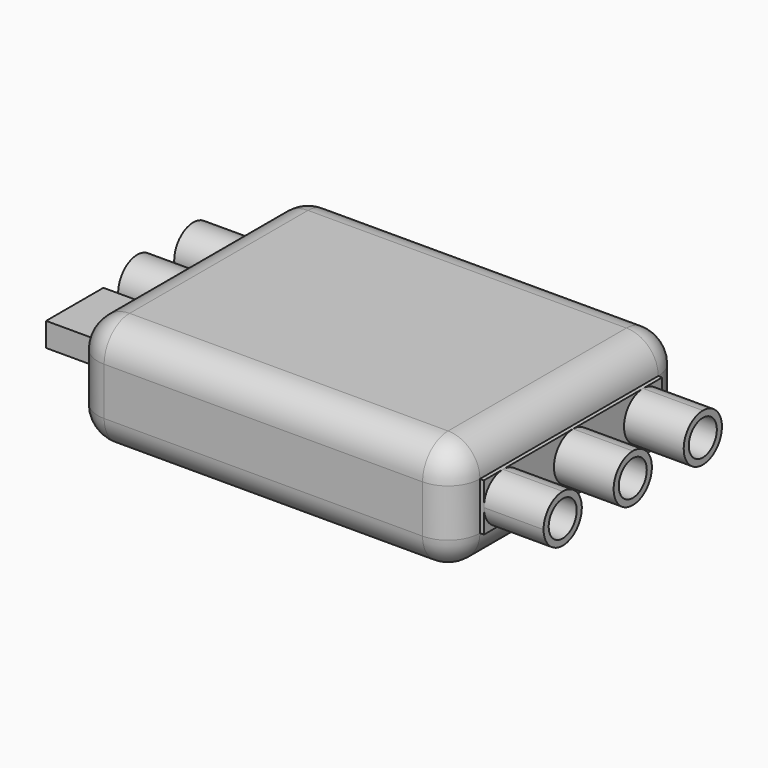
from build123d import *

# Parameters (mm, degrees)
F1_DEPTH  = 7
F2_R      = 2
F3_R      = 1.1
F4_DEPTH  = 4
F5_R      = 1.5
F5_R_2    = 1.1
F6_DEPTH  = 4
F5_W      = 4.5
F5_H      = 1.5
F7_W      = 14
F7_H      = 3
F8_DEPTH  = 0.25
F9_W      = 14
F9_H      = 3
F10_DEPTH = 0.25


with BuildPart() as f1:
    # F0 (on Top) → F1 (new body)
    with BuildSketch(Plane.XY):
        with BuildLine():
            ThreePointArc((12, 7), (11.4142135624, 8.4142135624), (10, 9))
            Line((10, 9), (-10, 9))
            ThreePointArc((-10, 9), (-11.4142135624, 8.4142135624), (-12, 7))
            Line((-12, 7), (-12, -7))
            ThreePointArc((-12, -7), (-11.4142135624, -8.4142135624), (-10, -9))
            Line((-10, -9), (10, -9))
            ThreePointArc((10, -9), (11.4142135624, -8.4142135624), (12, -7))
            Line((12, -7), (12, 7))
        make_face()
    extrude(amount=F1_DEPTH)

    # F2
    f2_edges = [f1.edges().sort_by_distance(p)[0] for p in [
        (11.414214, 8.414214, 7),
        (0, 9, 7),
        (-11.414214, 8.414214, 7),
        (-12, 0, 7),
        (-11.414214, -8.414214, 7),
        (0, -9, 7),
        (11.414214, -8.414214, 7),
        (12, 0, 7),
        (11.414214, 8.414214, 0),
        (0, 9, 0),
        (-11.414214, 8.414214, 0),
        (-12, 0, 0),
        (-11.414214, -8.414214, 0),
        (0, -9, 0),
        (11.414214, -8.414214, 0),
        (12, 0, 0),
    ]]
    fillet(f2_edges, radius=F2_R)



with BuildPart() as f4:
    # F3 (on face) → F4 (new body)
    with BuildSketch(Plane.YZ.offset(12)):
        with BuildLine():
            ThreePointArc((-4, 3.5), (-4.4393398246, 4.5606601681), (-5.4999999897, 5))
            ThreePointArc((-5.4999999897, 5), (-6.5606601681, 4.5606601754), (-7, 3.5))
            ThreePointArc((-7, 3.5), (-6.5606601718, 2.4393398282), (-5.5, 2))
            ThreePointArc((-5.5, 2), (-4.4393398282, 2.4393398282), (-4, 3.5))
        make_face()
        with Locations((-5.5, 3.5)):
            Circle(F3_R, mode=Mode.SUBTRACT)
    extrude(amount=F4_DEPTH)


with BuildPart() as f4b:
    # F3 (on face) → F4, piece 2 (new body)
    with BuildSketch(Plane.YZ.offset(12)):
        with BuildLine():
            ThreePointArc((0, 2), (1.0606601718, 2.4393398282), (1.5, 3.5))
            ThreePointArc((1.5, 3.5), (1.0606601718, 4.5606601718), (0, 5))
            ThreePointArc((0, 5), (-1.5, 3.5), (0, 2))
        make_face()
        with Locations((0, 3.5)):
            Circle(F3_R, mode=Mode.SUBTRACT)
    extrude(amount=F4_DEPTH)


with BuildPart() as f4c:
    # F3 (on face) → F4, piece 3 (new body)
    with BuildSketch(Plane.YZ.offset(12)):
        with BuildLine():
            ThreePointArc((7, 3.5), (6.5606601718, 4.5606601718), (5.5, 5))
            ThreePointArc((5.5, 5), (4, 3.499999998), (5.5000000039, 2))
            ThreePointArc((5.5000000039, 2), (6.5606601732, 2.4393398296), (7, 3.5))
        make_face()
        with Locations((5.5, 3.5)):
            Circle(F3_R, mode=Mode.SUBTRACT)
    extrude(amount=F4_DEPTH)


with BuildPart() as f6:
    # F5 (on face) → F6 (new body)
    with BuildSketch(Plane(origin=(-12, 0, 0), x_dir=(0, -1, 0), z_dir=(-1, 0, 0))):
        with Locations((-5.5, 3.5)):
            Circle(F5_R)
        with Locations((-5.5, 3.5)):
            Circle(F5_R_2, mode=Mode.SUBTRACT)
    extrude(amount=F6_DEPTH)


with BuildPart() as f6b:
    # F5 (on face) → F6, piece 2 (new body)
    with BuildSketch(Plane(origin=(-12, 0, 0), x_dir=(0, -1, 0), z_dir=(-1, 0, 0))):
        with Locations((-1.1, 3.5)):
            Circle(F5_R)
        with Locations((-1.1, 3.5)):
            Circle(F5_R_2, mode=Mode.SUBTRACT)
    extrude(amount=F6_DEPTH)


with BuildPart() as f6c:
    # F5 (on face) → F6, piece 3 (new body)
    with BuildSketch(Plane(origin=(-12, 0, 0), x_dir=(0, -1, 0), z_dir=(-1, 0, 0))):
        with Locations((3.8085386623, 3.5)):
            Rectangle(F5_W, F5_H)
    extrude(amount=F6_DEPTH)


with BuildPart() as f1_1:
    add(f1.part)

    add(f4.part)  # F8 merges F4

    add(f4b.part)  # F8 merges F4b

    add(f4c.part)  # F8 merges F4c
    # F7 (on face) → F8 (join)
    with BuildSketch(Plane.YZ.offset(12)):
        with Locations((0, 3.5)):
            Rectangle(F7_W, F7_H)
    extrude(amount=F8_DEPTH)


    add(f6.part)  # F10 merges F6

    add(f6b.part)  # F10 merges F6b

    add(f6c.part)  # F10 merges F6c
    # F9 (on face) → F10 (join)
    with BuildSketch(Plane(origin=(-12, 0, 0), x_dir=(0, -1, 0), z_dir=(-1, 0, 0))):
        with Locations((0, 3.5)):
            Rectangle(F9_W, F9_H)
    extrude(amount=F10_DEPTH)


solid = f1_1.part
